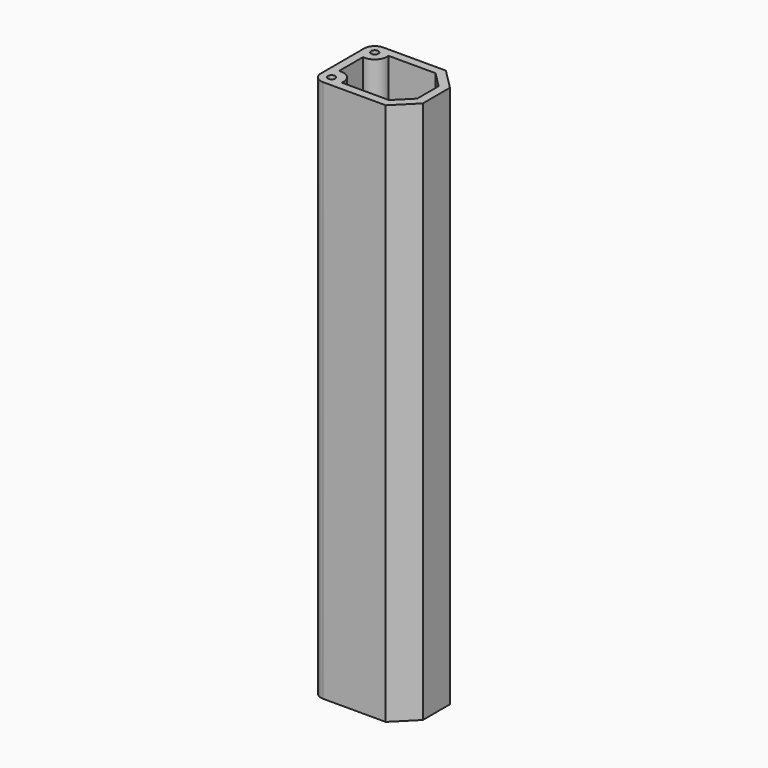
from build123d import *

# Parameters (mm, degrees)
F0_R     = 1.35255
F1_DEPTH = 203.2
F2_T     = -3.175
F3_DEPTH = 3.175
F4_R     = 3.96875


with BuildPart() as f1:
    # F0 (on Top) → F1 (new body)
    with BuildSketch(Plane.XY):
        Polygon((35.120382905, -7.7215365), (27.398846405, 0), (0, 0), (0, -28.143073), (27.398846405, -28.143073), (35.120382905, -20.4215365), align=None)
        with Locations((3.96875, -24.174323)):
            Circle(F0_R, mode=Mode.SUBTRACT)
        with Locations((3.96875, -3.96875)):
            Circle(F0_R, mode=Mode.SUBTRACT)
    extrude(amount=F1_DEPTH)

    # F2
    f2_openings = [f1.faces().sort_by_distance(p)[0] for p in [
        (16.75641, -14.071537, 203.2),
    ]]
    offset(amount=F2_T, openings=f2_openings)

    # F3 (cut, through all): a face of the model
    f3_faces = [f1.faces().sort_by_distance(p)[0] for p in [
        (17.830633935, -14.0715365, 3.175),
    ]]
    extrude(f3_faces, amount=-F3_DEPTH, mode=Mode.SUBTRACT)

    # F4
    f4_edges = [f1.edges().sort_by_distance(p)[0] for p in [
        (0, 0, 101.6),
        (0, -28.143073, 101.6),
    ]]
    fillet(f4_edges, radius=F4_R)


solid = f1.part
